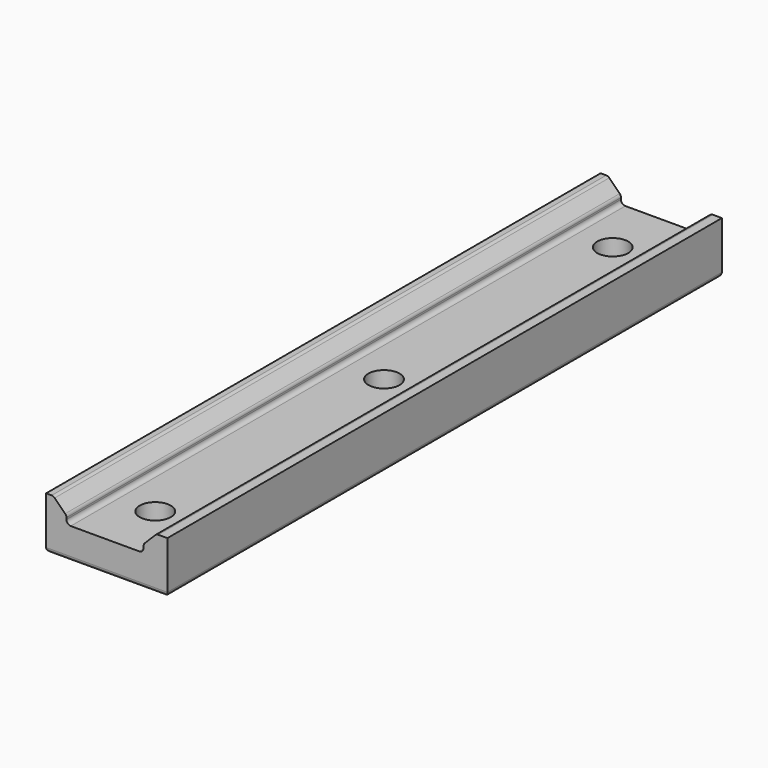
from build123d import *

# Parameters (mm, degrees)
F1_DEPTH       = 800
F2_SIZE        = 15
F3_R           = 5
F5_D           = 22
F5_CBORE_D     = 36
F5_CBORE_DEPTH = 23
F6_D           = 22
F6_CBORE_D     = 36
F6_CBORE_DEPTH = 23
F7_D           = 22
F7_CBORE_D     = 36
F7_CBORE_DEPTH = 23


with BuildPart() as f1:
    # F0 (on Front) → F1 (new body)
    with BuildSketch(Plane.XZ):
        Polygon((70, -30), (70, 30), (42.5, 30), (42.5, 6), (-46.5, 6), (-46.5, 30), (-70, 30), (-70, -30), align=None)
    extrude(amount=F1_DEPTH)

    # F2
    f2_edges = [f1.edges().sort_by_distance(p)[0] for p in [
        (-46.5, -400, 30),
        (42.5, -400, 30),
    ]]
    chamfer(f2_edges, length=F2_SIZE)

    # F3
    f3_edges = [f1.edges().sort_by_distance(p)[0] for p in [
        (-61.5, -400, 30),
        (-46.5, -400, 15),
        (-46.5, -400, 6),
        (57.5, -400, 30),
        (42.5, -400, 15),
        (42.5, -400, 6),
        (-70, -400, -30),
        (70, -400, -30),
        (0, -800, -30),
        (0, 0, -30),
    ]]
    fillet(f3_edges, radius=F3_R)

    # F5 (through all)
    with Locations(Plane.XY.offset(6)):
        with Locations((0, -70)):
            CounterBoreHole(F5_D / 2, F5_CBORE_D / 2, F5_CBORE_DEPTH)

    # F6 (through all)
    with Locations(Plane.XY.offset(6)):
        with Locations((0, -400)):
            CounterBoreHole(F6_D / 2, F6_CBORE_D / 2, F6_CBORE_DEPTH)

    # F7 (through all)
    with Locations(Plane.XY.offset(6)):
        with Locations((0, -730)):
            CounterBoreHole(F7_D / 2, F7_CBORE_D / 2, F7_CBORE_DEPTH)


solid = f1.part
